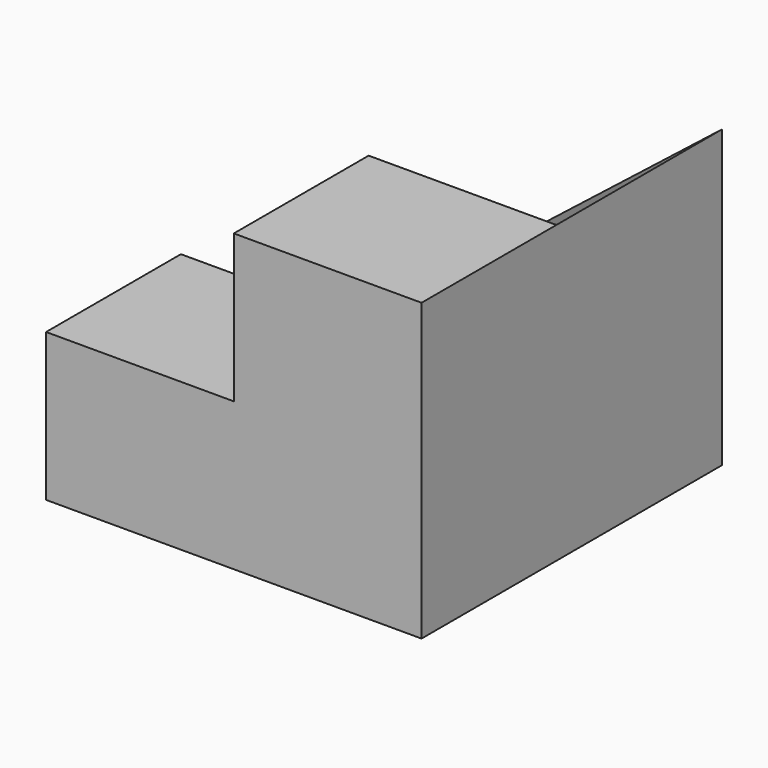
from build123d import *

# Parameters (mm, degrees)
F0_W     = 1270
F0_H     = 1270
F1_DEPTH = 1000
F2_W     = 635
F2_H     = 626.05989
F3_DEPTH = 500
F5_DEPTH = 700


with BuildPart() as f1:
    # F0 (on Top) → F1 (new body)
    with BuildSketch(Plane.XY):
        with Locations((635, 635)):
            Rectangle(F0_W, F0_H)
    extrude(amount=F1_DEPTH)

    # F2 (on face) → F3 (cut)
    with BuildSketch(Plane.XY.offset(1000)):
        with Locations((317.5, 313.029945)):
            Rectangle(F2_W, F2_H)
    extrude(amount=-F3_DEPTH, mode=Mode.SUBTRACT)

    # F4 (on face) → F5 (cut)
    with BuildSketch(Plane(origin=(0, 1270, 0), x_dir=(-1, 0, 0), z_dir=(0, 1, 0))):
        Polygon((0, 1000), (-1270, 1000), (0, 0), align=None)
    extrude(amount=-F5_DEPTH, mode=Mode.SUBTRACT)


solid = f1.part
